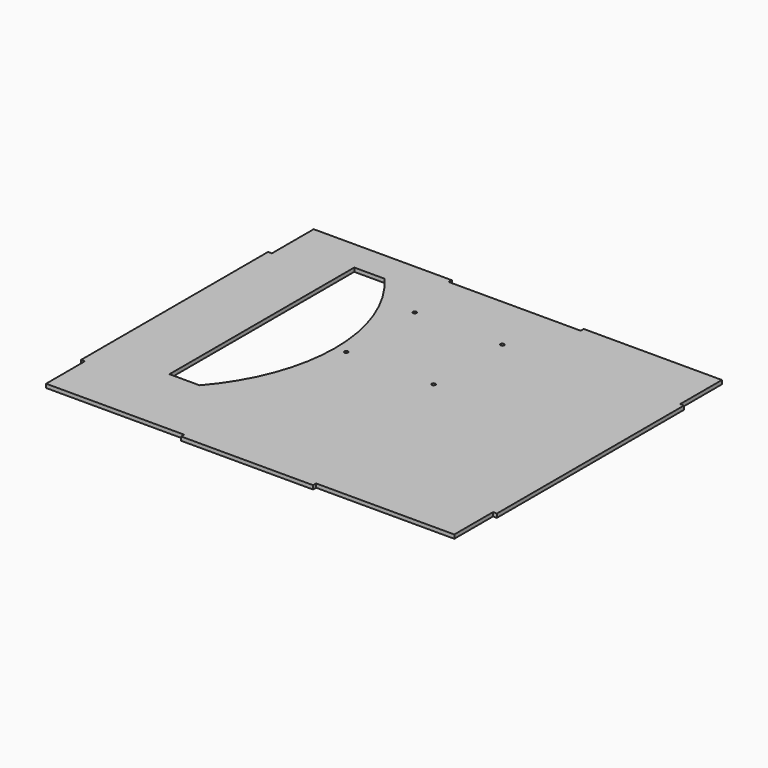
from build123d import *

# Parameters (mm, degrees)
F0_R     = 2.1
F1_DEPTH = 4.45


with BuildPart() as f1:
    # F0 (on Top) → F1 (new body)
    with BuildSketch(Plane.XY):
        Polygon((76.58256, -205.548276), (237, -205.548276), (237, -149.304041), (241.45, -149.304041), (241.45, 122.207489), (237, 122.207489), (237, 178.451724), (237, 182.901724), (76.58256, 182.901724), (76.58256, 178.451724), (-76.58256, 178.451724), (-76.58256, 182.901724), (-237, 182.901724), (-237, 178.451724), (-237, 122.207489), (-241.45, 122.207489), (-241.45, -149.304041), (-237, -149.304041), (-237, -205.548276), (-76.58256, -205.548276), (-76.58256, -209.998276), (76.58256, -209.998276), align=None)
        with BuildLine():
            ThreePointArc((-126.29, 147.110829), (-76.000943, 12.993895), (-126.29, -121.123038))
            Line((-126.29, -121.123038), (-161.29, -121.123038))
            Line((-161.29, -121.123038), (-161.29, 147.110829))
            Line((-161.29, 147.110829), (-126.29, 147.110829))
        make_face(mode=Mode.SUBTRACT)
        with Locations((-63.5, 12.993895)):
            Circle(F0_R, mode=Mode.SUBTRACT)
        with BuildLine():
            ThreePointArc((-61.4, 112.593895), (-62.015076, 111.108971), (-63.5, 110.493895))
            ThreePointArc((-63.5, 110.493895), (-64.984924, 114.07882), (-61.4, 112.593895))
        make_face(mode=Mode.SUBTRACT)
        with BuildLine():
            ThreePointArc((40.3, 12.993895), (38.2, 10.893895), (36.1, 12.993895))
            ThreePointArc((36.1, 12.993895), (36.715076, 14.47882), (38.2, 15.093895))
            ThreePointArc((38.2, 15.093895), (39.684924, 14.47882), (40.3, 12.993895))
        make_face(mode=Mode.SUBTRACT)
        with BuildLine():
            ThreePointArc((36.1, 112.593895), (38.2, 114.693895), (40.3, 112.593895))
            ThreePointArc((40.3, 112.593895), (39.684924, 111.108971), (38.2, 110.493895))
            ThreePointArc((38.2, 110.493895), (36.715076, 111.108971), (36.1, 112.593895))
        make_face(mode=Mode.SUBTRACT)
    extrude(amount=F1_DEPTH)


solid = f1.part
